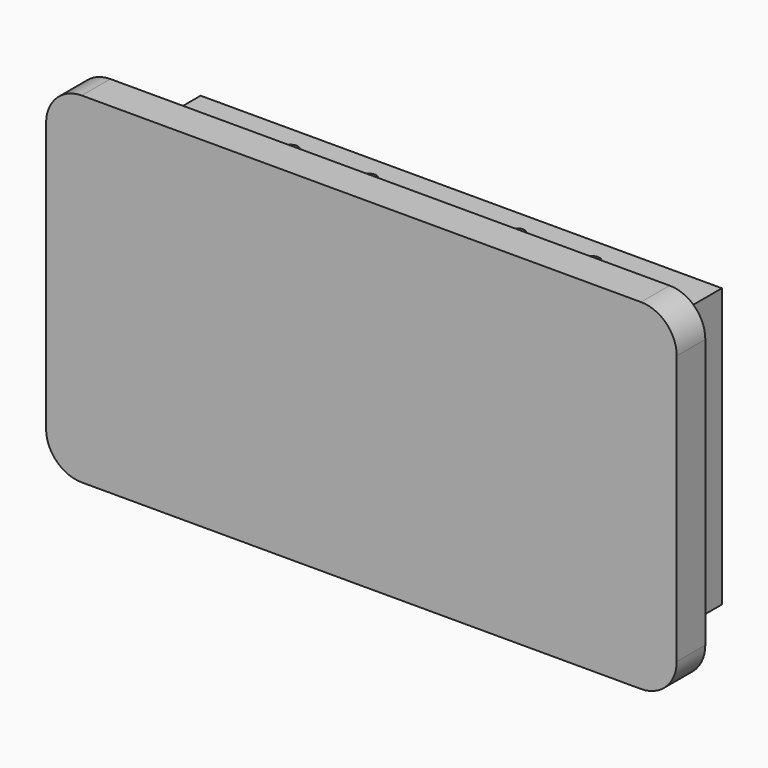
from build123d import *

# Parameters (mm, degrees)
F1_DEPTH = 6.35
F2_W     = 92.6338
F2_H     = 54.0004
F3_DEPTH = 5.08
F4_W     = 92.6338
F4_H     = 49.4792
F5_DEPTH = 11.0236
F6_R     = 1.27
F7_DEPTH = 25.4


with BuildPart() as f1:
    # F0 (on Front) → F1 (new body)
    with BuildSketch(Plane.XZ):
        with BuildLine():
            ThreePointArc((0, 6.35), (1.859872, 1.859872), (6.35, 0))
            Line((6.35, 0), (105.7148, 0))
            ThreePointArc((105.7148, 0), (110.204928, 1.859872), (112.0648, 6.35))
            Line((112.0648, 6.35), (112.0648, 54.1782))
            ThreePointArc((112.0648, 54.1782), (110.204928, 58.668328), (105.7148, 60.5282))
            Line((105.7148, 60.5282), (6.35, 60.5282))
            ThreePointArc((6.35, 60.5282), (1.859872, 58.668328), (0, 54.1782))
            Line((0, 54.1782), (0, 6.35))
        make_face()
    extrude(amount=-F1_DEPTH)

    # F2 (on face) → F3 (join)
    with BuildSketch(Plane(origin=(0, 6.35, 0), x_dir=(-1, 0, 0), z_dir=(0, 1, 0))):
        with Locations((-55.8165, 29.9212)):
            Rectangle(F2_W, F2_H)
    extrude(amount=F3_DEPTH)

    # F4 (on face) → F5 (join)
    with BuildSketch(Plane(origin=(0, 11.43, 0), x_dir=(-1, 0, 0), z_dir=(0, 1, 0))):
        with Locations((-55.8165, 27.6606)):
            Rectangle(F4_W, F4_H)
    extrude(amount=F5_DEPTH)

    # F6 (on face) → F7 (cut)
    with BuildSketch(Plane.XY.offset(52.4002)):
        with Locations((29.2608, 17.78)):
            Circle(F6_R)
        with Locations((43.1546, 17.78)):
            Circle(F6_R)
        with Locations((69.4944, 17.78)):
            Circle(F6_R)
        with Locations((82.8548, 17.78)):
            Circle(F6_R)
    extrude(amount=-F7_DEPTH, mode=Mode.SUBTRACT)


solid = f1.part
